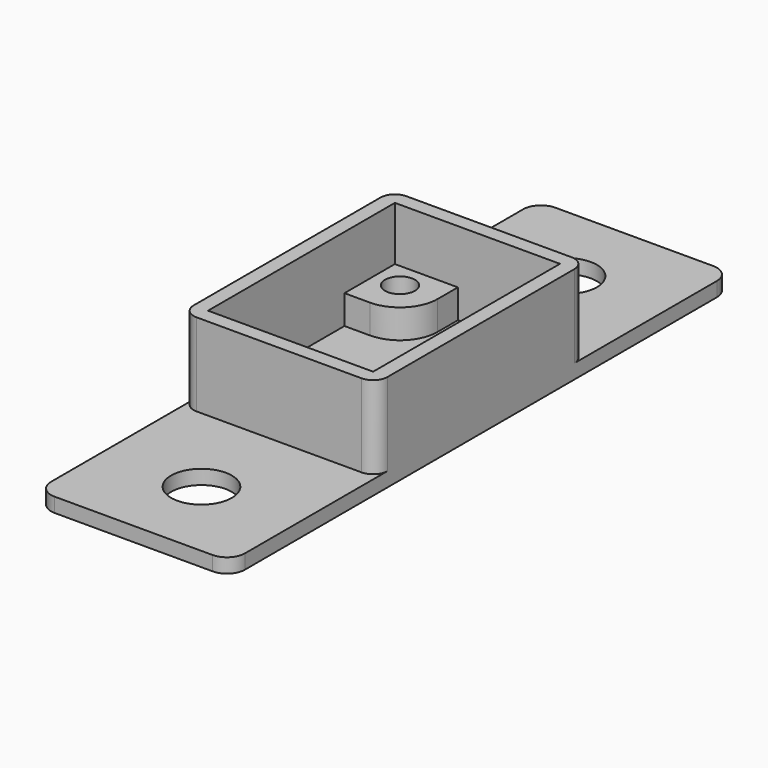
from build123d import *

# Parameters (mm, degrees)
SKETCH_W                = 18.38
SKETCH_H                = 26
PAD_DEPTH               = 9.221
THICKNESS_T             = 1.6
SKETCH001_R             = 1.67005
PAD001_DEPTH            = 3.221
SKETCH001_MIRRORED_2_R  = 1.67005
PAD001_MIRRORED_2_DEPTH = 3.221
SKETCH002_R             = 3.3782
PAD002_DEPTH            = 1.6


with BuildPart() as part:
    # Sketch → Pad (new body)
    with BuildSketch(Plane.XY):
        Rectangle(SKETCH_W, SKETCH_H)
    extrude(amount=PAD_DEPTH)

    # Thickness
    thickness_openings = [part.faces().sort_by_distance(p)[0] for p in [
        (0, 0, 9.221),
    ]]
    offset(amount=THICKNESS_T, openings=thickness_openings)

    # Sketch001 → Pad001 (join)
    with BuildSketch(Plane.XY):
        with BuildLine():
            ThreePointArc((-6.35, 5.984875), (-3.397741, 7.207741), (-2.174875, 10.16))
            Line((-2.174875, 13), (-2.174875, 10.16))
            Line((-9.19, 13), (-2.174875, 13))
            Line((-9.19, 5.984875), (-9.19, 13))
            Line((-6.35, 5.984875), (-9.19, 5.984875))
        make_face()
        with Locations((-6.35, 10.16)):
            Circle(SKETCH001_R, mode=Mode.SUBTRACT)
    pad001 = extrude(amount=PAD001_DEPTH)

    # Sketch001 Mirrored 2 → Pad001 Mirrored 2 (add)
    with BuildSketch(Plane(origin=(0, 0, 0), x_dir=(-1, 0, 0), z_dir=(0, 0, -1))):
        with BuildLine():
            ThreePointArc((-6.35, 5.984875), (-3.397741, 7.207741), (-2.174875, 10.16))
            Line((-2.174875, 13), (-2.174875, 10.16))
            Line((-9.19, 13), (-2.174875, 13))
            Line((-9.19, 5.984875), (-9.19, 13))
            Line((-6.35, 5.984875), (-9.19, 5.984875))
        make_face()
        with Locations((-6.35, 10.16)):
            Circle(SKETCH001_MIRRORED_2_R, mode=Mode.SUBTRACT)
    pad001_mirrored_2 = extrude(amount=-PAD001_MIRRORED_2_DEPTH)

    # Mirrored001: Pad001, Pad001 Mirrored 2 across XZ
    add(pad001.mirror(Plane.XZ))
    add(pad001_mirrored_2.mirror(Plane.XZ))

    # Sketch002 → Pad002 (join)
    with BuildSketch(Plane.XY):
        with BuildLine():
            Line((-10.79, 32.8375), (-10.79, -32.8375))
            ThreePointArc((-10.79, -32.8375), (-10.204214, -34.251714), (-8.79, -34.8375))
            Line((-8.79, -34.8375), (8.79, -34.8375))
            ThreePointArc((8.79, -34.8375), (10.204214, -34.251714), (10.79, -32.8375))
            Line((10.79, -32.8375), (10.79, 32.8375))
            ThreePointArc((10.79, 32.8375), (10.204214, 34.251714), (8.79, 34.8375))
            Line((8.79, 34.8375), (-8.79, 34.8375))
            ThreePointArc((-8.79, 34.8375), (-10.204214, 34.251714), (-10.79, 32.8375))
        make_face()
        with Locations((0, 25.4)):
            Circle(SKETCH002_R, mode=Mode.SUBTRACT)
        with Locations((0, -25.4)):
            Circle(SKETCH002_R, mode=Mode.SUBTRACT)
    extrude(amount=-PAD002_DEPTH)


solid = part.part
